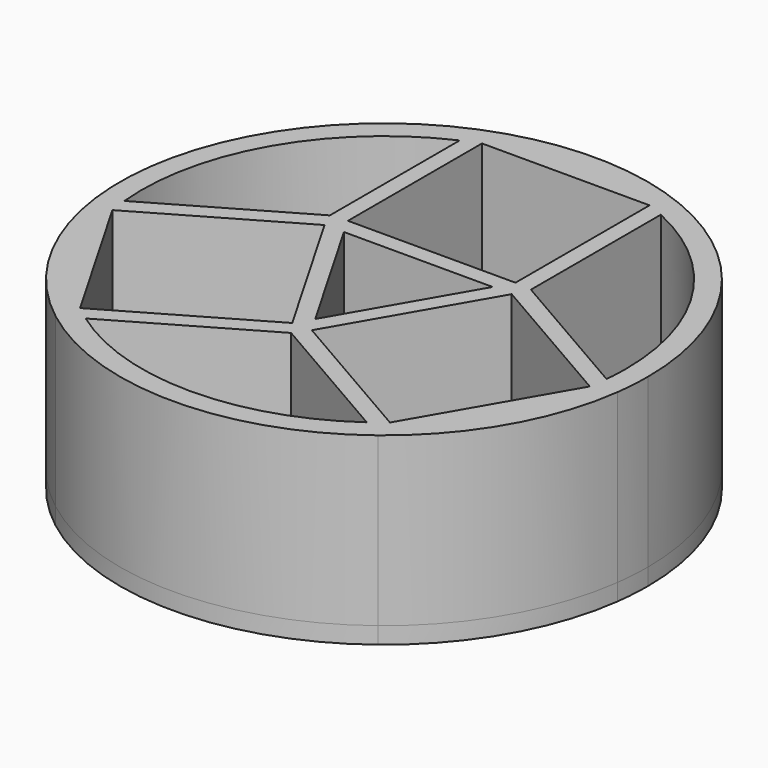
from build123d import *

# Parameters (mm, degrees)
F0_W     = 10
F0_H     = 10
F1_DEPTH = 1
F2_DEPTH = 10


with BuildPart() as f1:
    # F0 (on Top) → F1 (new body)
    with BuildSketch(Plane.XY):
        with BuildLine():
            ThreePointArc((-14.2453533868, -2.4510559207), (-14.3270734093, -1.9164383021), (-14.3887368124, -1.3791378416))
            Line((-14.3887368124, -1.3791378416), (-15.6113787906, -2.0850305169))
            Line((-15.6113787906, -2.0850305169), (-9.6113787906, -12.4773353623))
            Line((-9.6113787906, -12.4773353623), (-8.3887368124, -11.7714426871))
            ThreePointArc((-8.3887368124, -11.7714426871), (-8.8232209591, -11.4493903833), (-9.2453533868, -11.1113099585))
            ThreePointArc((-9.2453533868, -11.1113099585), (-12.518119914, -7.2273399021), (-14.2453533868, -2.4510559207))
        make_face()
        with BuildLine():
            Line((15.6113787906, -2.0850305169), (14.3887368124, -1.3791378416))
            ThreePointArc((14.3887368124, -1.3791378416), (14.3270734093, -1.9164383021), (14.2453533868, -2.4510559207))
            ThreePointArc((14.2453533868, -2.4510559207), (12.518119914, -7.2273399021), (9.2453533868, -11.1113099585))
            ThreePointArc((9.2453533868, -11.1113099585), (8.8232209591, -11.4493903833), (8.3887368124, -11.7714426871))
            Line((8.3887368124, -11.7714426871), (9.6113787906, -12.4773353623))
            Line((9.6113787906, -12.4773353623), (15.6113787906, -2.0850305169))
        make_face()
        with BuildLine():
            Line((-5, 3.5623658792), (-5, 13.5623658792))
            ThreePointArc((-5, 13.5623658792), (-5.5038524502, 13.3658286854), (-6, 13.1505805287))
            Line((-6, 13.1505805287), (-6, 3.4641016151))
            Line((-6, 3.4641016151), (-5.2190739452, 3.9149694831))
            Line((-5.2190739452, 3.9149694831), (-4.4381478904, 2.5623658792))
            Line((-4.4381478904, 2.5623658792), (4.4381478904, 2.5623658792))
            Line((4.4381478904, 2.5623658792), (5.2190739452, 3.9149694831))
            Line((5.2190739452, 3.9149694831), (6, 3.4641016151))
            Line((6, 3.4641016151), (6, 13.1505805287))
            ThreePointArc((6, 13.1505805287), (5.5038524502, 13.3658286854), (5, 13.5623658792))
            Line((5, 13.5623658792), (5, 3.5623658792))
            Line((5, 3.5623658792), (-5, 3.5623658792))
        make_face()
        with BuildLine():
            Line((-6, 3.4641016151), (-6, 13.1505805287))
            ThreePointArc((-6, 13.1505805287), (-12.518119914, 7.2273399021), (-14.3887368124, -1.3791378416))
            Line((-14.3887368124, -1.3791378416), (-6, 3.4641016151))
        make_face()
        with BuildLine():
            Line((-8.3887368124, -11.7714426871), (-9.6113787906, -12.4773353623))
            ThreePointArc((-9.6113787906, -12.4773353623), (0, -15.75), (9.6113787906, -12.4773353623))
            Line((9.6113787906, -12.4773353623), (8.3887368124, -11.7714426871))
            ThreePointArc((8.3887368124, -11.7714426871), (0, -14.4546798042), (-8.3887368124, -11.7714426871))
        make_face()
        with BuildLine():
            Line((6, 14.5623658792), (6, 13.1505805287))
            ThreePointArc((6, 13.1505805287), (12.158656321, 7.816958789), (14.4546798042, 0))
            ThreePointArc((14.4546798042, 0), (14.4381846444, -0.690356731), (14.3887368124, -1.3791378416))
            Line((14.3887368124, -1.3791378416), (15.6113787906, -2.0850305169))
            ThreePointArc((15.6113787906, -2.0850305169), (15.7153064869, -1.0448167418), (15.75, 0))
            ThreePointArc((15.75, 0), (13.087446275, 8.7624910842), (6, 14.5623658792))
        make_face()
        Polygon((4.4381478904, 2.5623658792), (-4.4381478904, 2.5623658792), (0, -5.1247317584), align=None)
        with BuildLine():
            ThreePointArc((6, 14.5623658792), (0, 15.75), (-6, 14.5623658792))
            Line((-6, 14.5623658792), (6, 14.5623658792))
        make_face()
        with BuildLine():
            Line((-9.6113787906, -12.4773353623), (-15.6113787906, -2.0850305169))
            ThreePointArc((-15.6113787906, -2.0850305169), (-13.6399001096, -7.875), (-9.6113787906, -12.4773353623))
        make_face()
        with BuildLine():
            ThreePointArc((9.6113787906, -12.4773353623), (13.6399001096, -7.875), (15.6113787906, -2.0850305169))
            Line((15.6113787906, -2.0850305169), (9.6113787906, -12.4773353623))
        make_face()
        with Locations((0, 8.5623658792)):
            Rectangle(F0_W, F0_H)
        with BuildLine():
            ThreePointArc((5, 13.5623658792), (0, 14.4546798042), (-5, 13.5623658792))
            Line((-5, 13.5623658792), (5, 13.5623658792))
        make_face()
        Polygon((-5.585099349, 2.5489440793), (-14.2453533868, -2.4510559207), (-9.2453533868, -11.1113099585), (-0.585099349, -6.1113099585), align=None)
        with BuildLine():
            Line((-9.2453533868, -11.1113099585), (-14.2453533868, -2.4510559207))
            ThreePointArc((-14.2453533868, -2.4510559207), (-12.518119914, -7.2273399021), (-9.2453533868, -11.1113099585))
        make_face()
        Polygon((9.2453533868, -11.1113099585), (14.2453533868, -2.4510559207), (5.585099349, 2.5489440793), (0.585099349, -6.1113099585), align=None)
        with BuildLine():
            ThreePointArc((9.2453533868, -11.1113099585), (12.518119914, -7.2273399021), (14.2453533868, -2.4510559207))
            Line((14.2453533868, -2.4510559207), (9.2453533868, -11.1113099585))
        make_face()
        with BuildLine():
            ThreePointArc((-14.3887368124, -1.3791378416), (-12.518119914, 7.2273399021), (-6, 13.1505805287))
            Line((-6, 13.1505805287), (-6, 14.5623658792))
            ThreePointArc((-6, 14.5623658792), (-13.6399001096, 7.875), (-15.6113787906, -2.0850305169))
            Line((-15.6113787906, -2.0850305169), (-14.3887368124, -1.3791378416))
        make_face()
        with BuildLine():
            Line((-6, 2.5623658792), (-6, 3.4641016151))
            Line((-6, 3.4641016151), (-14.3887368124, -1.3791378416))
            ThreePointArc((-14.3887368124, -1.3791378416), (-14.3270734093, -1.9164383021), (-14.2453533868, -2.4510559207))
            Line((-14.2453533868, -2.4510559207), (-5.585099349, 2.5489440793))
            Line((-5.585099349, 2.5489440793), (-0.585099349, -6.1113099585))
            Line((-0.585099349, -6.1113099585), (-9.2453533868, -11.1113099585))
            ThreePointArc((-9.2453533868, -11.1113099585), (-8.8232209591, -11.4493903833), (-8.3887368124, -11.7714426871))
            Line((-8.3887368124, -11.7714426871), (0, -6.9282032303))
            Line((0, -6.9282032303), (-0.7809260548, -6.4773353623))
            Line((-0.7809260548, -6.4773353623), (0, -5.1247317584))
            Line((0, -5.1247317584), (-4.4381478904, 2.5623658792))
            Line((-4.4381478904, 2.5623658792), (-6, 2.5623658792))
        make_face()
        with BuildLine():
            ThreePointArc((14.4546798042, 0), (12.158656321, 7.816958789), (6, 13.1505805287))
            Line((6, 13.1505805287), (6, 3.4641016151))
            Line((6, 3.4641016151), (14.3887368124, -1.3791378416))
            ThreePointArc((14.3887368124, -1.3791378416), (14.4381846444, -0.690356731), (14.4546798042, 0))
        make_face()
        with BuildLine():
            Line((14.3887368124, -1.3791378416), (6, 3.4641016151))
            Line((6, 3.4641016151), (6, 2.5623658792))
            Line((6, 2.5623658792), (4.4381478904, 2.5623658792))
            Line((4.4381478904, 2.5623658792), (0, -5.1247317584))
            Line((0, -5.1247317584), (0.7809260548, -6.4773353623))
            Line((0.7809260548, -6.4773353623), (0, -6.9282032303))
            Line((0, -6.9282032303), (8.3887368124, -11.7714426871))
            ThreePointArc((8.3887368124, -11.7714426871), (8.8232209591, -11.4493903833), (9.2453533868, -11.1113099585))
            Line((9.2453533868, -11.1113099585), (0.585099349, -6.1113099585))
            Line((0.585099349, -6.1113099585), (5.585099349, 2.5489440793))
            Line((5.585099349, 2.5489440793), (14.2453533868, -2.4510559207))
            ThreePointArc((14.2453533868, -2.4510559207), (14.3270734093, -1.9164383021), (14.3887368124, -1.3791378416))
        make_face()
        with BuildLine():
            Line((0, -6.9282032303), (-8.3887368124, -11.7714426871))
            ThreePointArc((-8.3887368124, -11.7714426871), (0, -14.4546798042), (8.3887368124, -11.7714426871))
            Line((8.3887368124, -11.7714426871), (0, -6.9282032303))
        make_face()
        with BuildLine():
            ThreePointArc((-6, 13.1505805287), (-5.5038524502, 13.3658286854), (-5, 13.5623658792))
            ThreePointArc((-5, 13.5623658792), (0, 14.4546798042), (5, 13.5623658792))
            ThreePointArc((5, 13.5623658792), (5.5038524502, 13.3658286854), (6, 13.1505805287))
            Line((6, 13.1505805287), (6, 14.5623658792))
            Line((6, 14.5623658792), (-6, 14.5623658792))
            Line((-6, 14.5623658792), (-6, 13.1505805287))
        make_face()
        Polygon((6, 2.5623658792), (6, 3.4641016151), (5.2190739452, 3.9149694831), (4.4381478904, 2.5623658792), align=None)
        Polygon((0.7809260548, -6.4773353623), (0, -5.1247317584), (-0.7809260548, -6.4773353623), (0, -6.9282032303), align=None)
        Polygon((-5.2190739452, 3.9149694831), (-6, 3.4641016151), (-6, 2.5623658792), (-4.4381478904, 2.5623658792), align=None)
    extrude(amount=-F1_DEPTH)

    # F0 (on Top) → F2 (join)
    with BuildSketch(Plane.XY):
        with BuildLine():
            Line((-6, 2.5623658792), (-6, 3.4641016151))
            Line((-6, 3.4641016151), (-14.3887368124, -1.3791378416))
            ThreePointArc((-14.3887368124, -1.3791378416), (-14.3270734093, -1.9164383021), (-14.2453533868, -2.4510559207))
            Line((-14.2453533868, -2.4510559207), (-5.585099349, 2.5489440793))
            Line((-5.585099349, 2.5489440793), (-0.585099349, -6.1113099585))
            Line((-0.585099349, -6.1113099585), (-9.2453533868, -11.1113099585))
            ThreePointArc((-9.2453533868, -11.1113099585), (-8.8232209591, -11.4493903833), (-8.3887368124, -11.7714426871))
            Line((-8.3887368124, -11.7714426871), (0, -6.9282032303))
            Line((0, -6.9282032303), (-0.7809260548, -6.4773353623))
            Line((-0.7809260548, -6.4773353623), (0, -5.1247317584))
            Line((0, -5.1247317584), (-4.4381478904, 2.5623658792))
            Line((-4.4381478904, 2.5623658792), (-6, 2.5623658792))
        make_face()
        with BuildLine():
            ThreePointArc((-14.3887368124, -1.3791378416), (-12.518119914, 7.2273399021), (-6, 13.1505805287))
            Line((-6, 13.1505805287), (-6, 14.5623658792))
            ThreePointArc((-6, 14.5623658792), (-13.6399001096, 7.875), (-15.6113787906, -2.0850305169))
            Line((-15.6113787906, -2.0850305169), (-14.3887368124, -1.3791378416))
        make_face()
        with BuildLine():
            ThreePointArc((5, 13.5623658792), (0, 14.4546798042), (-5, 13.5623658792))
            Line((-5, 13.5623658792), (5, 13.5623658792))
        make_face()
        with BuildLine():
            Line((-9.6113787906, -12.4773353623), (-15.6113787906, -2.0850305169))
            ThreePointArc((-15.6113787906, -2.0850305169), (-13.6399001096, -7.875), (-9.6113787906, -12.4773353623))
        make_face()
        with BuildLine():
            ThreePointArc((6, 14.5623658792), (0, 15.75), (-6, 14.5623658792))
            Line((-6, 14.5623658792), (6, 14.5623658792))
        make_face()
        with BuildLine():
            Line((6, 14.5623658792), (6, 13.1505805287))
            ThreePointArc((6, 13.1505805287), (12.158656321, 7.816958789), (14.4546798042, 0))
            ThreePointArc((14.4546798042, 0), (14.4381846444, -0.690356731), (14.3887368124, -1.3791378416))
            Line((14.3887368124, -1.3791378416), (15.6113787906, -2.0850305169))
            ThreePointArc((15.6113787906, -2.0850305169), (15.7153064869, -1.0448167418), (15.75, 0))
            ThreePointArc((15.75, 0), (13.087446275, 8.7624910842), (6, 14.5623658792))
        make_face()
        with BuildLine():
            Line((-8.3887368124, -11.7714426871), (-9.6113787906, -12.4773353623))
            ThreePointArc((-9.6113787906, -12.4773353623), (0, -15.75), (9.6113787906, -12.4773353623))
            Line((9.6113787906, -12.4773353623), (8.3887368124, -11.7714426871))
            ThreePointArc((8.3887368124, -11.7714426871), (0, -14.4546798042), (-8.3887368124, -11.7714426871))
        make_face()
        with BuildLine():
            Line((-5, 3.5623658792), (-5, 13.5623658792))
            ThreePointArc((-5, 13.5623658792), (-5.5038524502, 13.3658286854), (-6, 13.1505805287))
            Line((-6, 13.1505805287), (-6, 3.4641016151))
            Line((-6, 3.4641016151), (-5.2190739452, 3.9149694831))
            Line((-5.2190739452, 3.9149694831), (-4.4381478904, 2.5623658792))
            Line((-4.4381478904, 2.5623658792), (4.4381478904, 2.5623658792))
            Line((4.4381478904, 2.5623658792), (5.2190739452, 3.9149694831))
            Line((5.2190739452, 3.9149694831), (6, 3.4641016151))
            Line((6, 3.4641016151), (6, 13.1505805287))
            ThreePointArc((6, 13.1505805287), (5.5038524502, 13.3658286854), (5, 13.5623658792))
            Line((5, 13.5623658792), (5, 3.5623658792))
            Line((5, 3.5623658792), (-5, 3.5623658792))
        make_face()
        with BuildLine():
            Line((14.3887368124, -1.3791378416), (6, 3.4641016151))
            Line((6, 3.4641016151), (6, 2.5623658792))
            Line((6, 2.5623658792), (4.4381478904, 2.5623658792))
            Line((4.4381478904, 2.5623658792), (0, -5.1247317584))
            Line((0, -5.1247317584), (0.7809260548, -6.4773353623))
            Line((0.7809260548, -6.4773353623), (0, -6.9282032303))
            Line((0, -6.9282032303), (8.3887368124, -11.7714426871))
            ThreePointArc((8.3887368124, -11.7714426871), (8.8232209591, -11.4493903833), (9.2453533868, -11.1113099585))
            Line((9.2453533868, -11.1113099585), (0.585099349, -6.1113099585))
            Line((0.585099349, -6.1113099585), (5.585099349, 2.5489440793))
            Line((5.585099349, 2.5489440793), (14.2453533868, -2.4510559207))
            ThreePointArc((14.2453533868, -2.4510559207), (14.3270734093, -1.9164383021), (14.3887368124, -1.3791378416))
        make_face()
        with BuildLine():
            Line((-9.2453533868, -11.1113099585), (-14.2453533868, -2.4510559207))
            ThreePointArc((-14.2453533868, -2.4510559207), (-12.518119914, -7.2273399021), (-9.2453533868, -11.1113099585))
        make_face()
        with BuildLine():
            ThreePointArc((9.6113787906, -12.4773353623), (13.6399001096, -7.875), (15.6113787906, -2.0850305169))
            Line((15.6113787906, -2.0850305169), (9.6113787906, -12.4773353623))
        make_face()
        with BuildLine():
            Line((15.6113787906, -2.0850305169), (14.3887368124, -1.3791378416))
            ThreePointArc((14.3887368124, -1.3791378416), (14.3270734093, -1.9164383021), (14.2453533868, -2.4510559207))
            ThreePointArc((14.2453533868, -2.4510559207), (12.518119914, -7.2273399021), (9.2453533868, -11.1113099585))
            ThreePointArc((9.2453533868, -11.1113099585), (8.8232209591, -11.4493903833), (8.3887368124, -11.7714426871))
            Line((8.3887368124, -11.7714426871), (9.6113787906, -12.4773353623))
            Line((9.6113787906, -12.4773353623), (15.6113787906, -2.0850305169))
        make_face()
        with BuildLine():
            ThreePointArc((9.2453533868, -11.1113099585), (12.518119914, -7.2273399021), (14.2453533868, -2.4510559207))
            Line((14.2453533868, -2.4510559207), (9.2453533868, -11.1113099585))
        make_face()
        with BuildLine():
            ThreePointArc((-14.2453533868, -2.4510559207), (-14.3270734093, -1.9164383021), (-14.3887368124, -1.3791378416))
            Line((-14.3887368124, -1.3791378416), (-15.6113787906, -2.0850305169))
            Line((-15.6113787906, -2.0850305169), (-9.6113787906, -12.4773353623))
            Line((-9.6113787906, -12.4773353623), (-8.3887368124, -11.7714426871))
            ThreePointArc((-8.3887368124, -11.7714426871), (-8.8232209591, -11.4493903833), (-9.2453533868, -11.1113099585))
            ThreePointArc((-9.2453533868, -11.1113099585), (-12.518119914, -7.2273399021), (-14.2453533868, -2.4510559207))
        make_face()
        with BuildLine():
            ThreePointArc((-6, 13.1505805287), (-5.5038524502, 13.3658286854), (-5, 13.5623658792))
            ThreePointArc((-5, 13.5623658792), (0, 14.4546798042), (5, 13.5623658792))
            ThreePointArc((5, 13.5623658792), (5.5038524502, 13.3658286854), (6, 13.1505805287))
            Line((6, 13.1505805287), (6, 14.5623658792))
            Line((6, 14.5623658792), (-6, 14.5623658792))
            Line((-6, 14.5623658792), (-6, 13.1505805287))
        make_face()
        Polygon((6, 2.5623658792), (6, 3.4641016151), (5.2190739452, 3.9149694831), (4.4381478904, 2.5623658792), align=None)
        Polygon((0.7809260548, -6.4773353623), (0, -5.1247317584), (-0.7809260548, -6.4773353623), (0, -6.9282032303), align=None)
        Polygon((-5.2190739452, 3.9149694831), (-6, 3.4641016151), (-6, 2.5623658792), (-4.4381478904, 2.5623658792), align=None)
    extrude(amount=F2_DEPTH)


solid = f1.part
